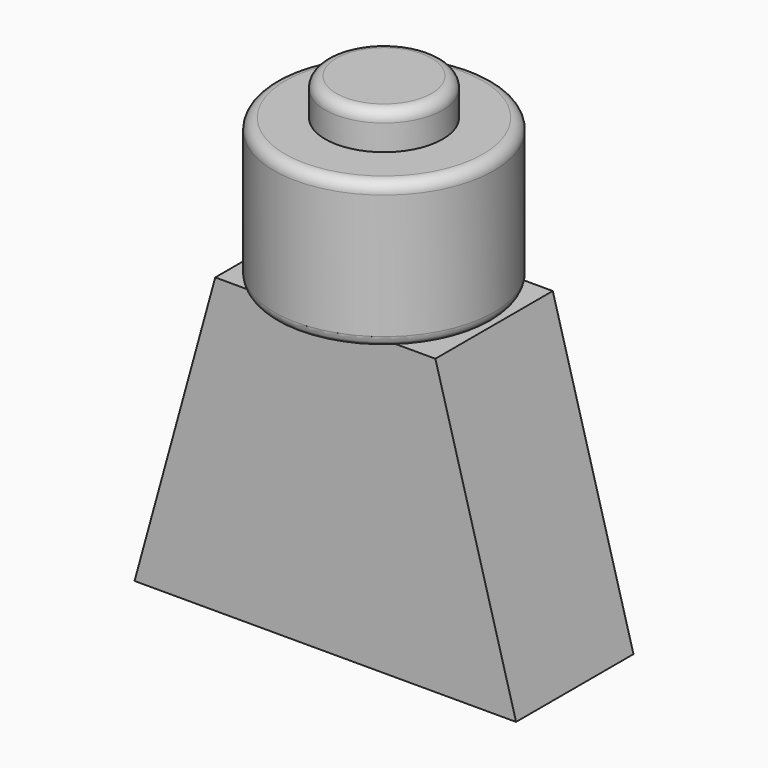
from build123d import *

# Parameters (mm, degrees)
F3_DEPTH = 6.35


with BuildPart() as f1:
    # F0 (on Front) → F1 (revolve)
    with BuildSketch(Plane.XZ):
        with BuildLine():
            Line((0, 15.875), (0, 0))
            Line((0, 0), (8.5598, 0))
            ThreePointArc((8.5598, 0), (9.242299, 0.282701), (9.525, 0.9652))
            Line((9.525, 0.9652), (9.525, 11.742871))
            ThreePointArc((9.525, 11.742871), (9.244663, 12.419663), (8.567871, 12.7))
            Line((8.567871, 12.7), (5.08, 12.7))
            Line((5.08, 12.7), (5.08, 14.917871))
            ThreePointArc((5.08, 14.917871), (4.799663, 15.594663), (4.122871, 15.875))
            Line((4.122871, 15.875), (0, 15.875))
        make_face()
    revolve(axis=Axis((0, 0, 7.9375), (0, 0, -1)))

    # F2 (on Front) → F3 (join, symmetric)
    with BuildSketch(Plane.XZ):
        Polygon((9.525, 0), (0, 0), (0, -25.4), (16.51, -25.4), align=None)
    extrude(amount=F3_DEPTH, both=True)

    # F4: F1 across plane


with BuildPart() as f1_1:
    add(f1.part)
    add(f1.part.mirror(Plane.YZ))


solid = f1_1.part
